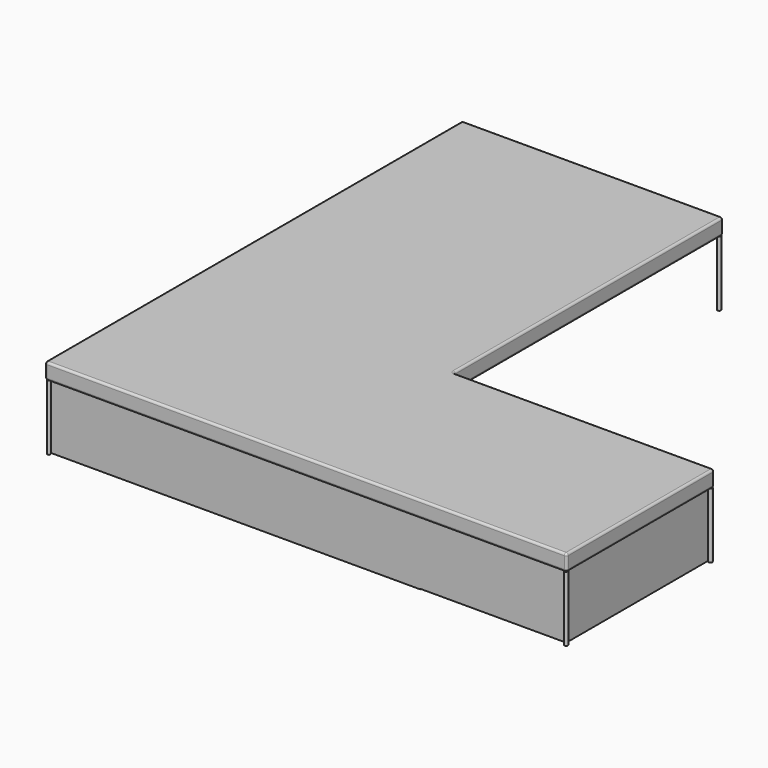
from build123d import *

# Parameters (mm, degrees)
F0_W      = 609.6
F0_H      = 431.8
F0_H_2    = 787.4
F1_DEPTH  = 38.1
F2_R      = 5.08
F3_R      = 3.875472852
F4_DEPTH  = 152.4
F5_R      = 3.7758304199
F6_DEPTH  = 152.4
F7_R      = 3.9853573506
F8_DEPTH  = 152.4
F9_R      = 4.2462881123
F10_DEPTH = 152.4
F11_R     = 4.2955728054
F12_DEPTH = 152.4
F13_W     = 600.7608175278
F13_H     = 151.1726528406
F15_DEPTH = 421.64
F14_W     = 862.8795146942
F14_H     = 152.4000018835
F16_DEPTH = 421.64
F17_W     = 11.0756754875
F17_H     = 142.5614315085
F18_DEPTH = 789.94


with BuildPart() as f1:
    # F0 (on Top) → F1 (new body)
    with BuildSketch(Plane.XY):
        with Locations((-304.8, -215.9)):
            Rectangle(F0_W, F0_H)
        with Locations((-304.8, 393.7)):
            Rectangle(F0_W, F0_H_2)
        with Locations((304.8, -215.9)):
            Rectangle(F0_W, F0_H)
    extrude(amount=F1_DEPTH)

    # F2
    f2_edges = [f1.edges().sort_by_distance(p)[0] for p in [
        (0, -431.8, 38.1),
        (609.6, -431.8, 19.05),
        (609.6, -215.9, 38.1),
        (304.8, 0, 38.1),
        (0, 393.7, 38.1),
        (-609.6, 177.8, 38.1),
        (-304.8, 787.4, 38.1),
        (0, 393.7, 0),
        (609.6, 0, 19.05),
        (304.8, 0, 0),
        (0, 0, 19.05),
        (609.6, -215.9, 0),
        (0, 787.4, 19.05),
        (-304.8, 787.4, 0),
        (-609.6, 787.4, 19.05),
        (-609.6, -431.8, 19.05),
        (-609.6, 177.8, 0),
        (0, -431.8, 0),
    ]]
    fillet(f2_edges, radius=F2_R)

    # F3 (on face) → F4 (join)
    with BuildSketch(Plane(origin=(0, 0, 0), x_dir=(1, 0, 0), z_dir=(0, 0, -1))):
        with Locations((-604.52, -782.32)):
            Circle(F3_R)
    extrude(amount=F4_DEPTH)

    # F5 (on face) → F6 (join)
    with BuildSketch(Plane(origin=(0, 0, 0), x_dir=(1, 0, 0), z_dir=(0, 0, -1))):
        with Locations((-604.52, 426.72)):
            Circle(F5_R)
    extrude(amount=F6_DEPTH)

    # F7 (on face) → F8 (join)
    with BuildSketch(Plane(origin=(0, 0, 0), x_dir=(1, 0, 0), z_dir=(0, 0, -1))):
        with Locations((604.52, 426.72)):
            Circle(F7_R)
    extrude(amount=F8_DEPTH)

    # F9 (on face) → F10 (join)
    with BuildSketch(Plane(origin=(0, 0, 0), x_dir=(1, 0, 0), z_dir=(0, 0, -1))):
        with Locations((604.52, 5.08)):
            Circle(F9_R)
    extrude(amount=F10_DEPTH)

    # F11 (on face) → F12 (join)
    with BuildSketch(Plane(origin=(0, 0, 0), x_dir=(1, 0, 0), z_dir=(0, 0, -1))):
        with Locations((-5.08, -782.32)):
            Circle(F11_R)
    extrude(amount=F12_DEPTH)

    # F13 (on Front) → F15 (join)
    with BuildSketch(Plane.XZ):
        with Locations((300.3804087639, -75.5863264203)):
            Rectangle(F13_W, F13_H)
    extrude(amount=F15_DEPTH)

    # F14 (on Front) → F16 (join)
    with BuildSketch(Plane.XZ):
        with Locations((-172.0642447472, -76.2000009418)):
            Rectangle(F14_W, F14_H)
    extrude(amount=F16_DEPTH)

    # F17 (on Front) → F18 (join)
    with BuildSketch(Plane.XZ):
        with Locations((-597.8262126446, -77.9886713717)):
            Rectangle(F17_W, F17_H)
    extrude(amount=-F18_DEPTH)


solid = f1.part
